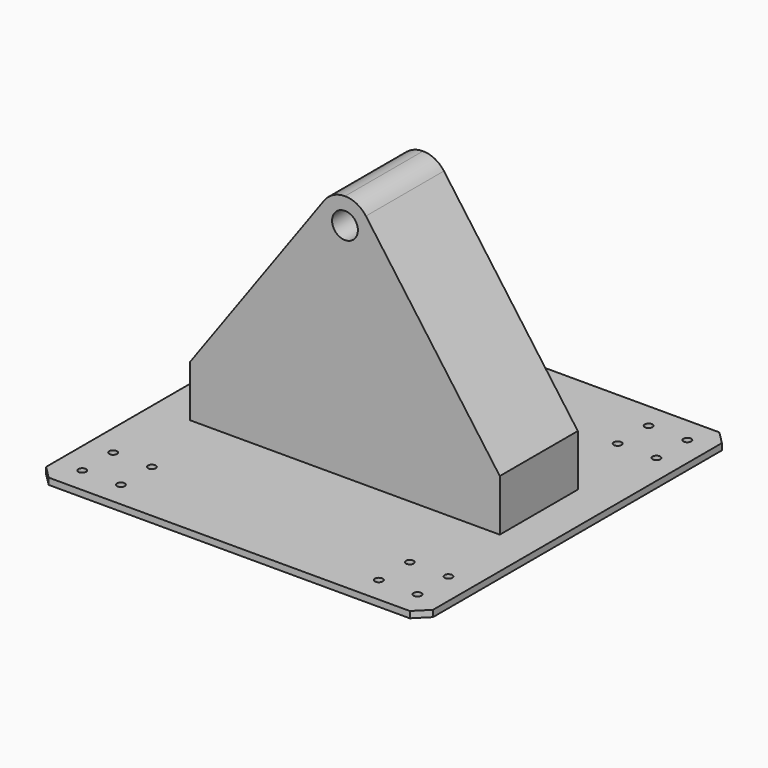
from build123d import *

# Parameters (mm, degrees)
F0_W     = 1500
F0_H     = 1500
F1_DEPTH = 25
F2_SIZE  = 50
F3_W     = 1200
F3_H     = 378
F4_DEPTH = 960
F6_D     = 100
F8_DEPTH = 532.28619
F10_D    = 30


with BuildPart() as f1:
    # F0 (on Top) → F1 (new body)
    with BuildSketch(Plane.XY):
        with Locations((-638.344221, 641.208582)):
            Rectangle(F0_W, F0_H)
    extrude(amount=F1_DEPTH)

    # F2
    f2_edges = [f1.edges().sort_by_distance(p)[0] for p in [
        (-1388.344221, -108.791418, 12.5),
        (111.655779, -108.791418, 12.5),
        (111.655779, 1391.208582, 12.5),
        (-1388.344221, 1391.208582, 12.5),
    ]]
    chamfer(f2_edges, length=F2_SIZE)

    # F3 (on face) → F4 (join)
    with BuildSketch(Plane.XY.offset(25)):
        with Locations((-638.344221, 641.208582)):
            Rectangle(F3_W, F3_H)
    extrude(amount=F4_DEPTH)

    # F6 (through all)
    with Locations(Plane.XZ.offset(-452.208582)):
        with Locations((-638.344221, 885)):
            Hole(F6_D / 2)

    # F7 (on face) → F8 (cut)
    with BuildSketch(Plane.XZ.offset(-452.208582)):
        with BuildLine():
            Line((-1238.344221, 985), (-1238.344221, 225))
            Line((-1238.344221, 225), (-719.413216, 943.547571))
            ThreePointArc((-719.413216, 943.547571), (-683.870273, 974.035827), (-638.344221, 985))
            Line((-638.344221, 985), (-1238.344221, 985))
        make_face()
        with BuildLine():
            Line((-38.344221, 985), (-638.344221, 985))
            ThreePointArc((-638.344221, 985), (-592.818168, 974.035827), (-557.275226, 943.547571))
            Line((-557.275226, 943.547571), (-38.344221, 225))
            Line((-38.344221, 225), (-38.344221, 985))
        make_face()
    extrude(amount=-F8_DEPTH, mode=Mode.SUBTRACT)

    # F10 (through all)
    with Locations(Plane(origin=(0, 0, 0), x_dir=(1, 0, 0), z_dir=(0, 0, -1))):
        with Locations((-1282.406457, -1291.193252), (-1132.406457, -1291.193252), (-1132.406457, -1141.193252), (-1282.406457, -1141.193252), (-1288.344221, -141.208582), (-1138.344221, -141.208582), (-1138.344221, 8.791418), (-1288.344221, 8.791418), (-138.344221, 8.791418), (11.655779, 8.791418), (11.655779, -141.208582), (-138.344221, -141.208582), (-132.406457, -1141.193252), (17.593543, -1141.193252), (17.593543, -1291.193252), (-132.406457, -1291.193252)):
            Hole(F10_D / 2)


solid = f1.part
